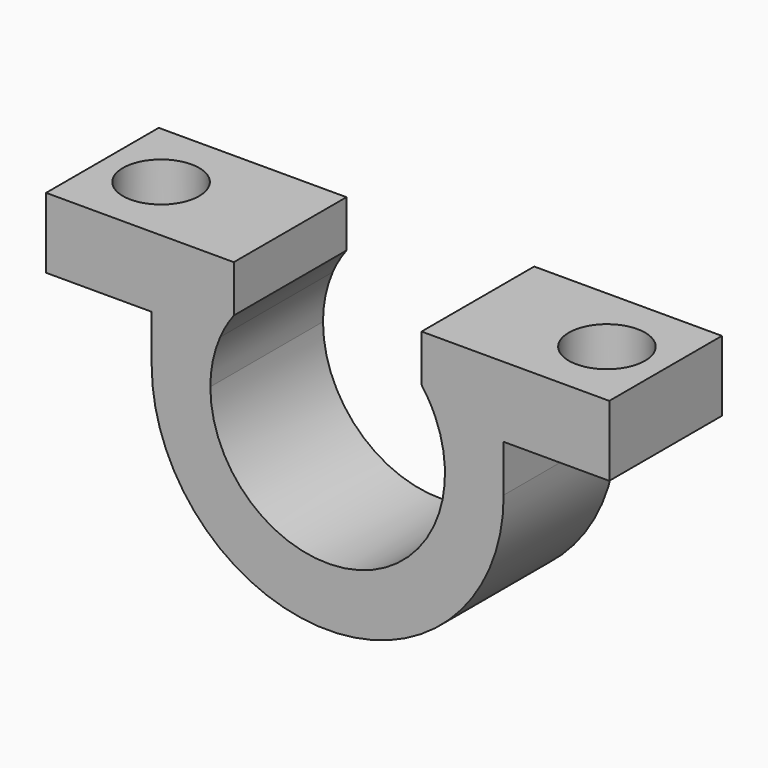
from build123d import *

# Parameters (mm, degrees)
F0_W     = 24
F0_H     = 6
F0_R     = 1.625
F1_DEPTH = 3
F3_DEPTH = 6
F5_DEPTH = 6.001


with BuildPart() as f1:
    # F0 (on Top) → F1 (new body)
    with BuildSketch(Plane.XY):
        Rectangle(F0_W, F0_H)
        with Locations((-9.5, 0)):
            Circle(F0_R, mode=Mode.SUBTRACT)
        with Locations((9.5, 0)):
            Circle(F0_R, mode=Mode.SUBTRACT)
    extrude(amount=F1_DEPTH)

    # F2 (on face) → F3 (join)
    with BuildSketch(Plane(origin=(0, 3, 0), x_dir=(-1, 0, 0), z_dir=(0, 1, 0))):
        with BuildLine():
            Line((-7.5, 0), (-7.5, -2))
            ThreePointArc((-7.5, -2), (0, -9.5), (7.5, -2))
            Line((7.5, -2), (7.5, 0))
            Line((7.5, 0), (4.582575695, 0))
            ThreePointArc((4.582575695, 0), (4.8945315647, -0.9784517816), (5, -2))
            ThreePointArc((5, -2), (-1.0215482184, -6.8945315647), (-4.582575695, 0))
            Line((-4.582575695, 0), (-7.5, 0))
        make_face()
    extrude(amount=-F3_DEPTH)

    # F4 (on face) → F5 (cut, through all)
    with BuildSketch(Plane.XZ.offset(3)):
        with BuildLine():
            Line((-4, 3), (-4, 1))
            ThreePointArc((-4, 1), (-2.2360679775, 2.472135955), (0, 3))
            Line((0, 3), (-4, 3))
        make_face()
        with BuildLine():
            Line((-4.582575695, 0), (-4, 0))
            Line((-4, 0), (-4, 1))
            ThreePointArc((-4, 1), (-4.3203184362, 0.5169125154), (-4.582575695, 0))
        make_face()
        with BuildLine():
            Line((-4, 1), (-4, 0))
            Line((-4, 0), (4, 0))
            Line((4, 0), (4, 1))
            ThreePointArc((4, 1), (2.2360679775, 2.472135955), (0, 3))
            ThreePointArc((0, 3), (-2.2360679775, 2.472135955), (-4, 1))
        make_face()
        with BuildLine():
            Line((4, 3), (0, 3))
            ThreePointArc((0, 3), (2.2360679775, 2.472135955), (4, 1))
            Line((4, 1), (4, 3))
        make_face()
        with BuildLine():
            Line((4, 1), (4, 0))
            Line((4, 0), (4.582575695, 0))
            ThreePointArc((4.582575695, 0), (4.3203184362, 0.5169125154), (4, 1))
        make_face()
    extrude(amount=-F5_DEPTH, mode=Mode.SUBTRACT)


solid = f1.part
